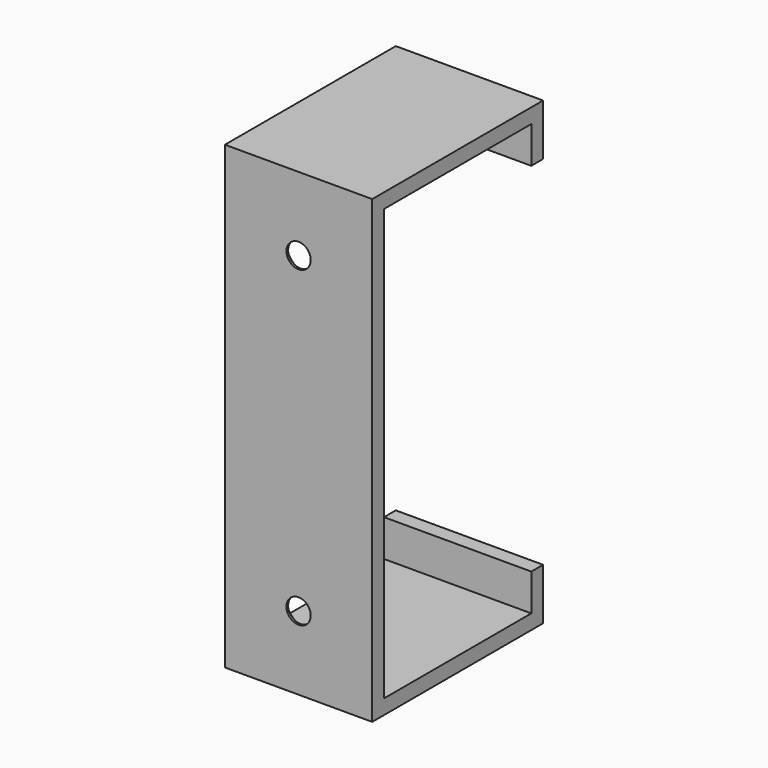
from build123d import *

# Parameters (mm, degrees)
F0_W           = 29
F0_H           = 62.5
F0_W_2         = 25
F0_H_2         = 58.5
F1_DEPTH       = 20
F2_W           = 20
F2_H           = 52.5
F3_DEPTH       = 2
F5_D           = 3.3
F5_CSINK_D     = 6.72
F5_CSINK_ANGLE = 90
F6_DEPTH       = 2
F7_DEPTH       = 2


with BuildPart() as f1:
    # F0 (on Right) → F1 (new body)
    with BuildSketch(Plane.YZ):
        Rectangle(F0_W, F0_H)
        Rectangle(F0_W_2, F0_H_2, mode=Mode.SUBTRACT)
    extrude(amount=F1_DEPTH)

    # F2 (on face) → F3 (cut)
    with BuildSketch(Plane(origin=(0, 14.5, 0), x_dir=(-1, 0, 0), z_dir=(0, 1, 0))):
        with Locations((-10, 0)):
            Rectangle(F2_W, F2_H)
    extrude(amount=-F3_DEPTH, mode=Mode.SUBTRACT)

    # F5 (through all)
    with Locations(Plane(origin=(0, -12.5, 0), x_dir=(-1, 0, 0), z_dir=(0, 1, 0))):
        with Locations((-10, 21.25), (-10, -21.25)):
            CounterSinkHole(F5_D / 2, F5_CSINK_D / 2, counter_sink_angle=F5_CSINK_ANGLE)

    # F6 (add): a face of the model
    f6_faces = [f1.faces().sort_by_distance(p)[0] for p in [
        (10, 13.5, 26.25),
    ]]
    extrude(f6_faces, amount=F6_DEPTH)

    # F7 (add): a face of the model
    f7_faces = [f1.faces().sort_by_distance(p)[0] for p in [
        (10, 13.5, -26.25),
    ]]
    extrude(f7_faces, amount=F7_DEPTH)


solid = f1.part
